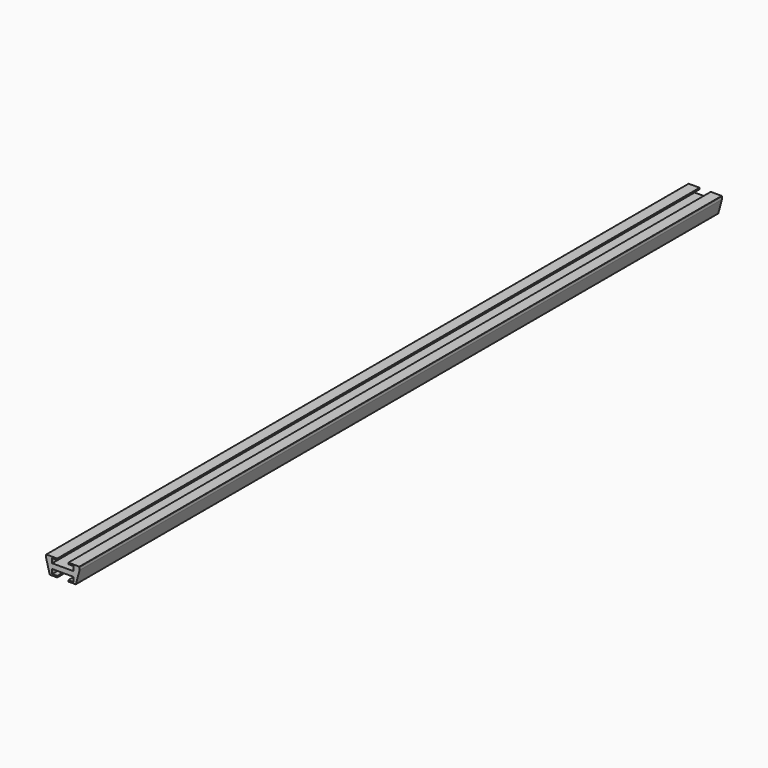
from build123d import *

# Parameters (mm, degrees)
F1_DEPTH = 720


with BuildPart() as f1:
    # F0 (on Front) → F1 (new body, symmetric)
    with BuildSketch(Plane.XZ):
        with BuildLine():
            ThreePointArc((30, 14.5), (29.853553, 14.853553), (29.5, 15))
            Line((29.5, 15), (10, 15))
            Line((10, 15), (10, 12.5))
            Line((10, 12.5), (19, 12.5))
            Line((19, 12.5), (19, 4.5))
            Line((19, 4.5), (0, 4.5))
            Line((0, 4.5), (-19, 4.5))
            Line((-19, 4.5), (-19, 12.5))
            Line((-19, 12.5), (-10, 12.5))
            Line((-10, 12.5), (-10, 15))
            Line((-10, 15), (-29.5, 15))
            ThreePointArc((-29.5, 15), (-29.853553, 14.853553), (-30, 14.5))
            Line((-30, 14.5), (-30, 9.539496))
            ThreePointArc((-30, 9.539496), (-29.997433, 9.500338), (-29.989778, 9.46185))
            Line((-29.989778, 9.46185), (-23.534544, -14.62941))
            ThreePointArc((-23.534544, -14.62941), (-23.355962, -14.896677), (-23.051581, -15))
            Line((-23.051581, -15), (-10, -15))
            Line((-10, -15), (-10, -12.5))
            Line((-10, -12.5), (-19, -12.5))
            Line((-19, -12.5), (-19, -4.5))
            Line((-19, -4.5), (0, -4.5))
            Line((0, -4.5), (19, -4.5))
            Line((19, -4.5), (19, -12.5))
            Line((19, -12.5), (10, -12.5))
            Line((10, -12.5), (10, -15))
            Line((10, -15), (23.051581, -15))
            ThreePointArc((23.051581, -15), (23.355962, -14.896677), (23.534544, -14.62941))
            Line((23.534544, -14.62941), (29.989778, 9.46185))
            ThreePointArc((29.989778, 9.46185), (29.997433, 9.500338), (30, 9.539496))
            Line((30, 9.539496), (30, 14.5))
        make_face()
    extrude(amount=F1_DEPTH, both=True)


solid = f1.part
